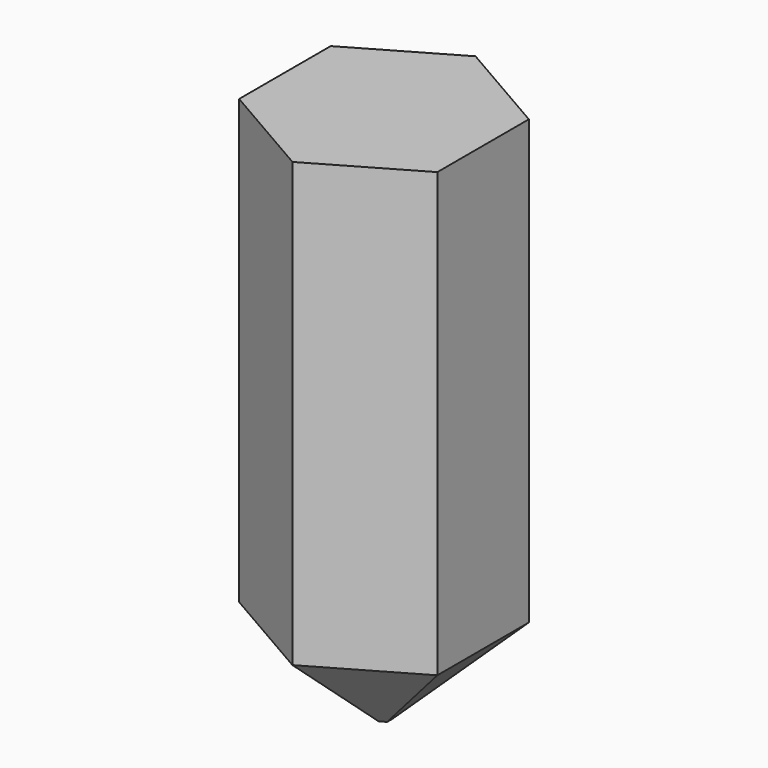
from build123d import *

# Parameters (mm, degrees)
F1_DEPTH = 46
F2_SIZE  = 8


with BuildPart() as f1:
    # F0 (on Top) → F1 (new body)
    with BuildSketch(Plane.XY):
        Polygon((0, -9.814955), (8.5, -4.907477), (8.5, 4.907477), (0, 9.814955), (-8.5, 4.907477), (-8.5, -4.907477), align=None)
    extrude(amount=F1_DEPTH)

    # F2
    f2_edges = [f1.edges().sort_by_distance(p)[0] for p in [
        (4.25, -7.361216, 0),
        (-4.25, -7.361216, 0),
        (-4.25, 7.361216, 0),
        (-8.5, 0, 0),
        (4.25, 7.361216, 0),
        (8.5, 0, 0),
    ]]
    chamfer(f2_edges, length=F2_SIZE)


solid = f1.part
